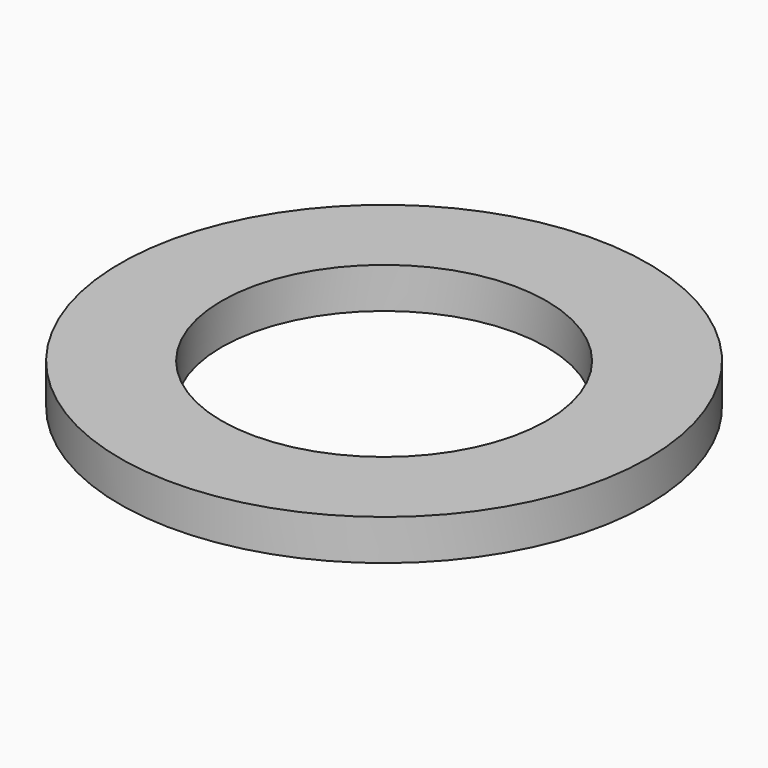
from build123d import *

# Parameters (mm, degrees)
CYLINDER007_R     = 0.4
CYLINDER007_DEPTH = 0.1
CYLINDER006_R     = 0.65
CYLINDER006_DEPTH = 0.1


with BuildPart() as cylinder007:
    # Cylinder007 → Cylinder007 (new body)
    with BuildSketch(Plane.XY.offset(1.62)):
        Circle(CYLINDER007_R)
    extrude(amount=CYLINDER007_DEPTH)


with BuildPart() as cut018:
    # Cylinder006 → Cylinder006 (new body)
    with BuildSketch(Plane.XY.offset(1.62)):
        Circle(CYLINDER006_R)
    extrude(amount=CYLINDER006_DEPTH)

    # Cut018: cut Cylinder007
    add(cylinder007.part, mode=Mode.SUBTRACT)


with BuildPart() as cut018_1:
    # Cut018 placement: moved
    add(cut018.part.moved(Location((34.12, 12.7, 0))))


solid = cut018_1.part
